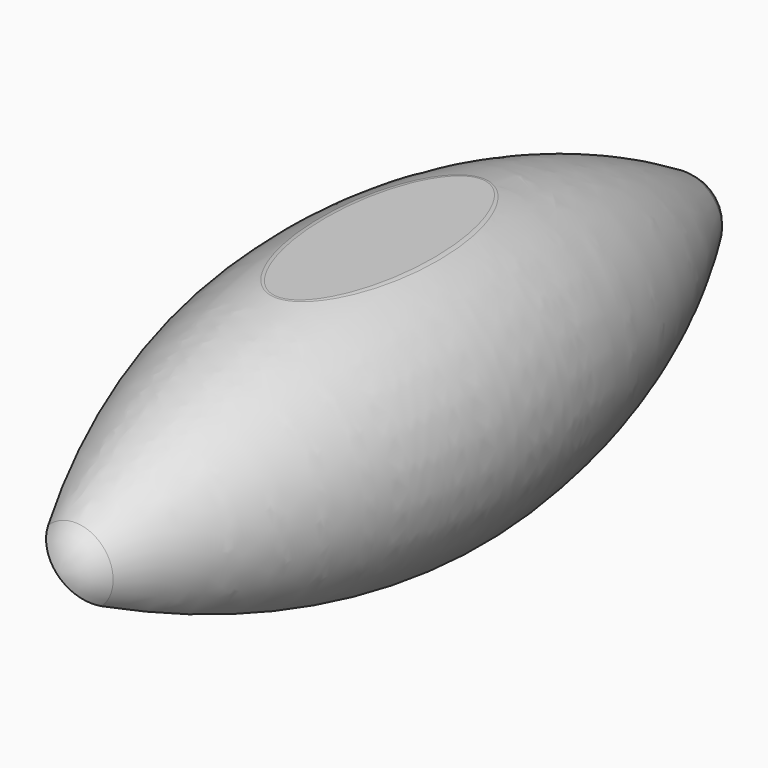
from build123d import *

# Parameters (mm, degrees)
F2_W     = 150
F2_H     = 10
F3_DEPTH = 50
F5_DEPTH = 203
F6_W     = 66.240772
F6_H     = 165
F7_DEPTH = 1
F8_R     = 5


with BuildPart() as f1:
    # F0 (on Right) → F1 (revolve)
    with BuildSketch(Plane.YZ):
        with BuildLine():
            ThreePointArc((-170.446234, 17.055093), (-177.448849, 9.774337), (-180, 0))
            Line((-180, 0), (180, 0))
            ThreePointArc((180, 0), (177.448849, 9.774337), (170.446234, 17.055093))
            ThreePointArc((170.446234, 17.055093), (0, 65.105742), (-170.446234, 17.055093))
        make_face()
    revolve(axis=Axis((0, 0, 0), (0, 1, 0)))

    # F2 (on Right) → F3 (cut, symmetric)
    with BuildSketch(Plane.YZ):
        with Locations((0, -65)):
            Rectangle(F2_W, F2_H)
        Polygon((75, 70), (-75, 70), (-75, 60), (0, 60), (75, 60), align=None)
    extrude(amount=F3_DEPTH, both=True, mode=Mode.SUBTRACT)

    # F4 (on Front) → F5 (cut, symmetric)
    with BuildSketch(Plane.XZ):
        Polygon((68.942911, -68.942911), (-68.942911, 68.942911), (-68.942911, -68.942911), align=None)
    extrude(amount=F5_DEPTH, both=True, mode=Mode.SUBTRACT)

    # F6 (on face) → F7 (cut)
    with BuildSketch(Plane(origin=(0, 0, 0), x_dir=(0.707107, 0, -0.707107), z_dir=(-0.707107, 0, -0.707107))):
        Rectangle(F6_W, F6_H)
    extrude(amount=-F7_DEPTH, mode=Mode.SUBTRACT)

    # F8
    f8_edges = [f1.edges().sort_by_distance(p)[0] for p in [
        (0, -57.5, 60),
    ]]
    fillet(f8_edges, radius=F8_R)


solid = f1.part
